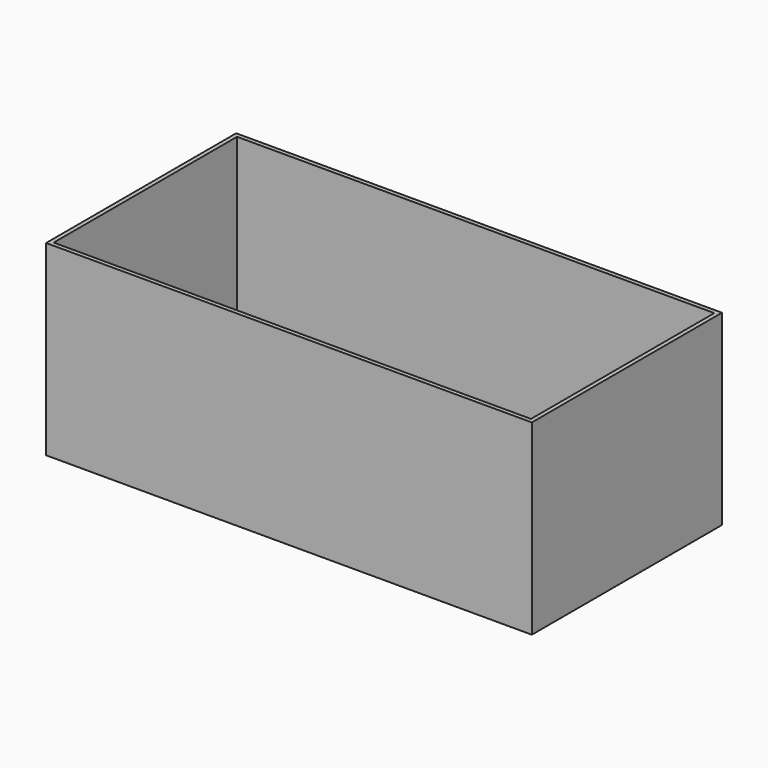
from build123d import *

# Parameters (mm, degrees)
SKETCH_W      = 92
SKETCH_H      = 45
SKETCH_W_2    = 52
SKETCH_H_2    = 39
PAD_DEPTH     = 0.4
SKETCH003_W   = 92
SKETCH003_H   = 45
SKETCH003_W_2 = 90.4
SKETCH003_H_2 = 43.4
PAD001_DEPTH  = 35
SKETCH001_R   = 3
SKETCH001_R_2 = 1
PAD002_DEPTH  = 4
SKETCH004_R   = 3
SKETCH004_R_2 = 1
PAD003_DEPTH  = 15


with BuildPart() as part:
    # Sketch → Pad (new body)
    with BuildSketch(Plane.XY):
        Rectangle(SKETCH_W, SKETCH_H)
        Rectangle(SKETCH_W_2, SKETCH_H_2, mode=Mode.SUBTRACT)
    extrude(amount=-PAD_DEPTH)

    # Sketch003 → Pad001 (join)
    with BuildSketch(Plane.XY):
        Rectangle(SKETCH003_W, SKETCH003_H)
        Rectangle(SKETCH003_W_2, SKETCH003_H_2, mode=Mode.SUBTRACT)
    extrude(amount=PAD001_DEPTH)

    # Sketch001 → Pad002 (join)
    with BuildSketch(Plane.XY):
        with Locations((30.5, 18.25)):
            Circle(SKETCH001_R)
        with Locations((30.5, 18.25)):
            Circle(SKETCH001_R_2, mode=Mode.SUBTRACT)
        with Locations((30.5, -18.25)):
            Circle(SKETCH001_R)
        with Locations((30.5, -18.25)):
            Circle(SKETCH001_R_2, mode=Mode.SUBTRACT)
        with Locations((-36.5, 18.25)):
            Circle(SKETCH001_R)
        with Locations((-36.5, 18.25)):
            Circle(SKETCH001_R_2, mode=Mode.SUBTRACT)
        with Locations((-36.5, -18.25)):
            Circle(SKETCH001_R)
        with Locations((-36.5, -18.25)):
            Circle(SKETCH001_R_2, mode=Mode.SUBTRACT)
    extrude(amount=PAD002_DEPTH)

    # Sketch004 → Pad003 (join)
    with BuildSketch(Plane.XY):
        with Locations((41.348775, 17.78)):
            Circle(SKETCH004_R)
        with Locations((41.348775, 17.78)):
            Circle(SKETCH004_R_2, mode=Mode.SUBTRACT)
        with Locations((41.348775, -17.78)):
            Circle(SKETCH004_R)
        with Locations((41.348775, -17.78)):
            Circle(SKETCH004_R_2, mode=Mode.SUBTRACT)
    extrude(amount=PAD003_DEPTH)


solid = part.part
